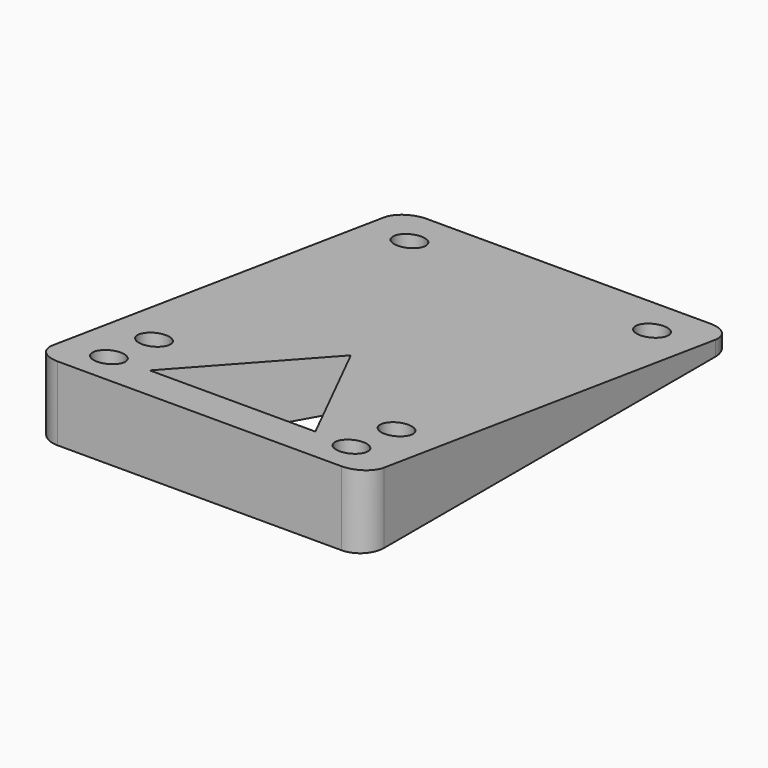
from build123d import *

# Parameters (mm, degrees)
F0_R          = 2.5
F1_DEPTH      = 20
F3_DEPTH      = 25
F5_DEPTH      = 33.15069
F5_DEPTH_BACK = 22.85131


with BuildPart() as f1:
    # F0 (on Top) → F1 (new body)
    with BuildSketch(Plane.XY):
        with BuildLine():
            Line((29.14969, 36.637019), (-18.85031, 36.637019))
            ThreePointArc((-18.85031, 36.637019), (-21.678737, 35.465446), (-22.85031, 32.637019))
            Line((-22.85031, 32.637019), (-22.85031, -37.362981))
            ThreePointArc((-22.85031, -37.362981), (-21.678737, -40.191408), (-18.85031, -41.362981))
            Line((-18.85031, -41.362981), (29.14969, -41.362981))
            ThreePointArc((29.14969, -41.362981), (31.978117, -40.191408), (33.14969, -37.362981))
            Line((33.14969, -37.362981), (33.14969, 32.637019))
            ThreePointArc((33.14969, 32.637019), (31.978117, 35.465446), (29.14969, 36.637019))
        make_face()
        with Locations((-15.35031, -34.862981)):
            Circle(F0_R, mode=Mode.SUBTRACT)
        with Locations((-15.35031, -25.337981)):
            Circle(F0_R, mode=Mode.SUBTRACT)
        with Locations((25.64969, -34.862981)):
            Circle(F0_R, mode=Mode.SUBTRACT)
        with Locations((25.64969, -25.337981)):
            Circle(F0_R, mode=Mode.SUBTRACT)
        with Locations((-15.35031, 28.637019)):
            Circle(F0_R, mode=Mode.SUBTRACT)
        with Locations((25.64969, 28.637019)):
            Circle(F0_R, mode=Mode.SUBTRACT)
    extrude(amount=F1_DEPTH)

    # F2 (on face) → F3 (cut)
    with BuildSketch(Plane.XY.offset(20)):
        Polygon((5.14969, -9.362981), (-8.85031, -34.362981), (19.14969, -34.362981), align=None)
    extrude(amount=-F3_DEPTH, mode=Mode.SUBTRACT)

    # F4 (on Right) → F5 (cut, two sides)
    with BuildSketch(Plane.YZ) as f5_sk:
        Polygon((36.637019, 2), (36.637019, 20), (-41.362981, 20), (-41.362981, 12.5), align=None)
    extrude(amount=F5_DEPTH, mode=Mode.SUBTRACT)
    extrude(f5_sk.sketch, amount=-F5_DEPTH_BACK, mode=Mode.SUBTRACT)


solid = f1.part
